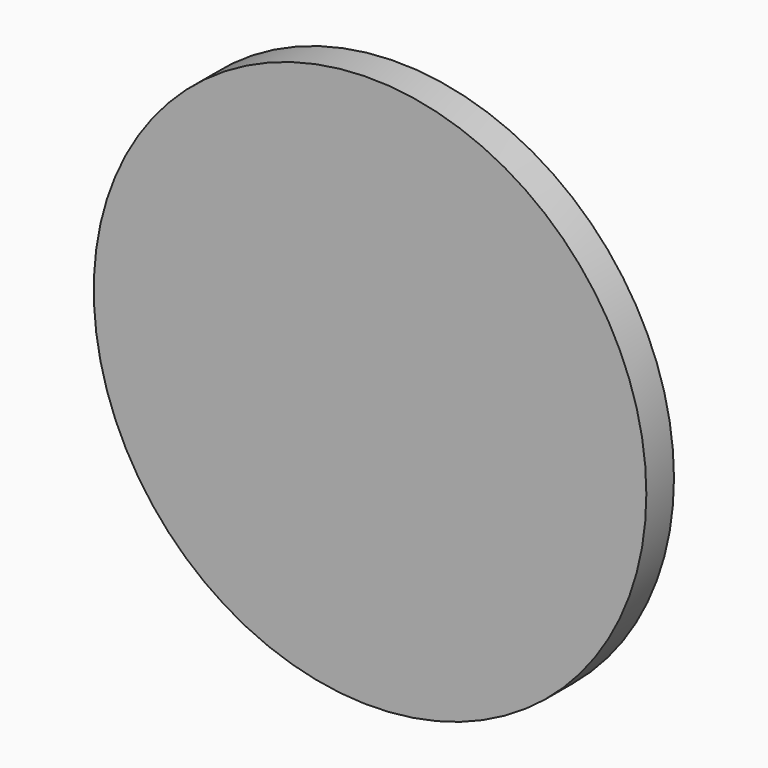
from build123d import *

# Parameters (mm, degrees)
F1_R     = 8
F2_DEPTH = 1


with BuildPart() as f2:
    # F1 (on face) → F2 (new body)
    with BuildSketch(Plane.XZ):
        Circle(F1_R)
    extrude(amount=F2_DEPTH)


solid = f2.part
